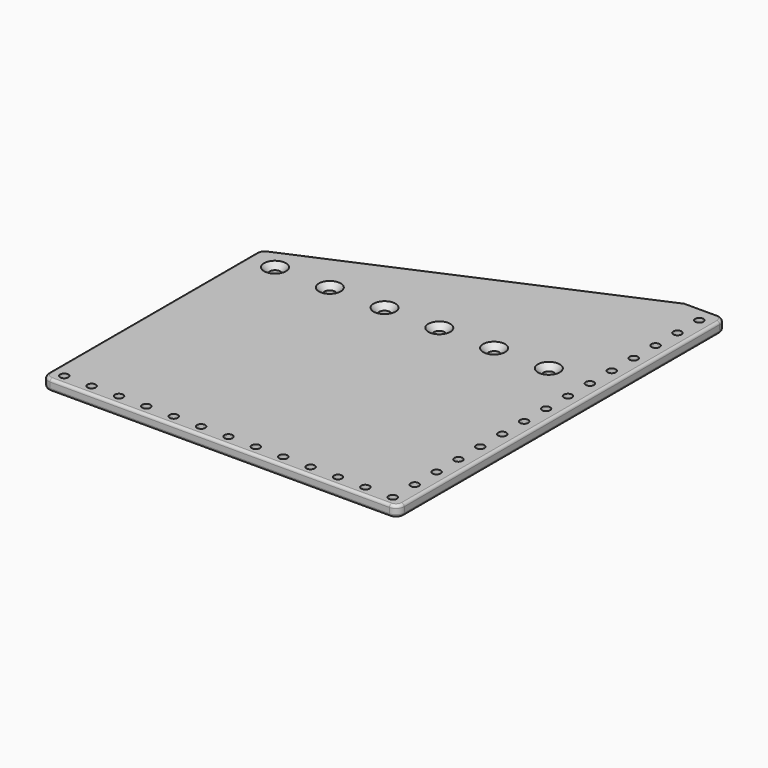
from build123d import *

# Parameters (mm, degrees)
SKETCH_R     = 1.5
SKETCH_R_2   = 2
PAD_DEPTH    = 4
CHAMFER_SIZE = 2
FILLET004_R  = 3
FILLET005_R  = 1


with BuildPart() as part:
    # Sketch → Pad (new body)
    with BuildSketch(Plane.XY):
        Polygon((0, 0), (130, 0), (130, 150), (115, 150), (0, 100), align=None)
        with Locations((5, 4)):
            Circle(SKETCH_R, mode=Mode.SUBTRACT)
        with Locations((15, 4)):
            Circle(SKETCH_R, mode=Mode.SUBTRACT)
        with Locations((25, 4)):
            Circle(SKETCH_R, mode=Mode.SUBTRACT)
        with Locations((35, 4)):
            Circle(SKETCH_R, mode=Mode.SUBTRACT)
        with Locations((45, 4)):
            Circle(SKETCH_R, mode=Mode.SUBTRACT)
        with Locations((55, 4)):
            Circle(SKETCH_R, mode=Mode.SUBTRACT)
        with Locations((65, 4)):
            Circle(SKETCH_R, mode=Mode.SUBTRACT)
        with Locations((75, 4)):
            Circle(SKETCH_R, mode=Mode.SUBTRACT)
        with Locations((85, 4)):
            Circle(SKETCH_R, mode=Mode.SUBTRACT)
        with Locations((95, 4)):
            Circle(SKETCH_R, mode=Mode.SUBTRACT)
        with Locations((105, 4)):
            Circle(SKETCH_R, mode=Mode.SUBTRACT)
        with Locations((115, 4)):
            Circle(SKETCH_R, mode=Mode.SUBTRACT)
        with Locations((125, 4)):
            Circle(SKETCH_R, mode=Mode.SUBTRACT)
        with Locations((125, 14)):
            Circle(SKETCH_R, mode=Mode.SUBTRACT)
        with Locations((125, 24)):
            Circle(SKETCH_R, mode=Mode.SUBTRACT)
        with Locations((125, 34)):
            Circle(SKETCH_R, mode=Mode.SUBTRACT)
        with Locations((125, 44)):
            Circle(SKETCH_R, mode=Mode.SUBTRACT)
        with Locations((125, 54)):
            Circle(SKETCH_R, mode=Mode.SUBTRACT)
        with Locations((125, 64)):
            Circle(SKETCH_R, mode=Mode.SUBTRACT)
        with Locations((125, 74)):
            Circle(SKETCH_R, mode=Mode.SUBTRACT)
        with Locations((125, 84)):
            Circle(SKETCH_R, mode=Mode.SUBTRACT)
        with Locations((125, 94)):
            Circle(SKETCH_R, mode=Mode.SUBTRACT)
        with Locations((125, 104)):
            Circle(SKETCH_R, mode=Mode.SUBTRACT)
        with Locations((125, 114)):
            Circle(SKETCH_R, mode=Mode.SUBTRACT)
        with Locations((125, 124)):
            Circle(SKETCH_R, mode=Mode.SUBTRACT)
        with Locations((125, 134)):
            Circle(SKETCH_R, mode=Mode.SUBTRACT)
        with Locations((125, 144)):
            Circle(SKETCH_R, mode=Mode.SUBTRACT)
        with Locations((10, 94)):
            Circle(SKETCH_R_2, mode=Mode.SUBTRACT)
        with Locations((30, 94)):
            Circle(SKETCH_R_2, mode=Mode.SUBTRACT)
        with Locations((50, 94)):
            Circle(SKETCH_R_2, mode=Mode.SUBTRACT)
        with Locations((70, 94)):
            Circle(SKETCH_R_2, mode=Mode.SUBTRACT)
        with Locations((90, 94)):
            Circle(SKETCH_R_2, mode=Mode.SUBTRACT)
        with Locations((110, 94)):
            Circle(SKETCH_R_2, mode=Mode.SUBTRACT)
    extrude(amount=PAD_DEPTH)

    # Chamfer
    chamfer_edges = [part.edges().sort_by_distance(p)[0] for p in [
        (8, 94, 4),
        (28, 94, 4),
        (48, 94, 4),
        (68, 94, 4),
        (88, 94, 4),
        (108, 94, 4),
    ]]
    chamfer(chamfer_edges, length=CHAMFER_SIZE)

    # Fillet004
    fillet004_edges = [part.edges().sort_by_distance(p)[0] for p in [
        (0, 0, 2),
        (0, 100, 2),
        (130, 0, 2),
        (130, 150, 2),
    ]]
    fillet(fillet004_edges, radius=FILLET004_R)

    # Fillet005
    fillet005_edges = [part.edges().sort_by_distance(p)[0] for p in [
        (130, 75, 0),
        (130, 3, 2),
        (130, 147, 2),
        (130, 75, 4),
    ]]
    fillet(fillet005_edges, radius=FILLET005_R)


solid = part.part
